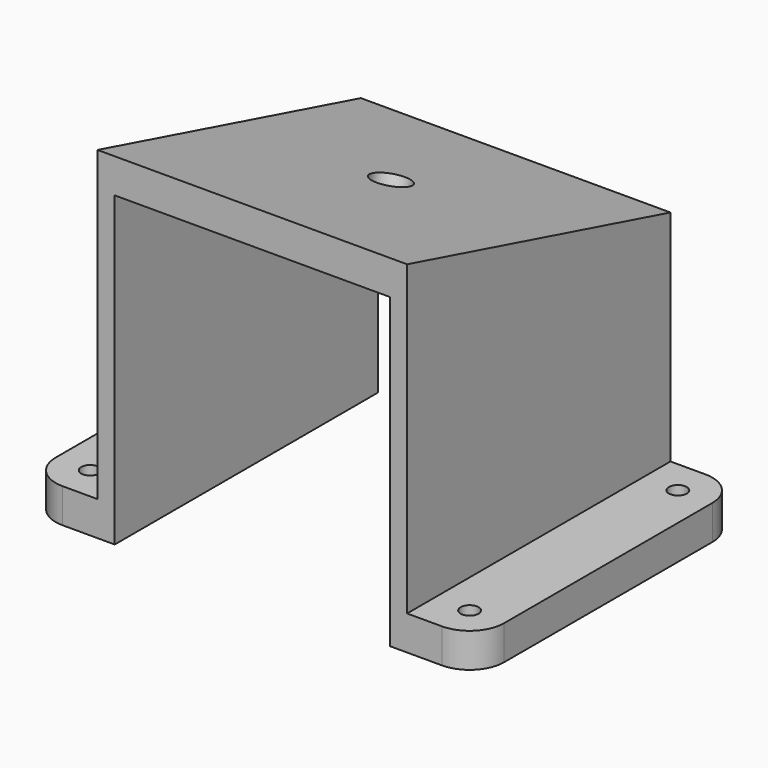
from build123d import *

# Parameters (mm, degrees)
F1_DEPTH  = 6.35
F2_W      = 60.7720911503
F2_H      = 40.4594867892
F1_FACE_W = 60.7720911503
F1_FACE_H = 6.35
F3_DEPTH  = 3.175
F5_DEPTH  = 25.4
F8_D      = 6.7564
F10_D     = 3.3


with BuildPart() as f1:
    # F0 (on Top) → F1 (new body)
    with BuildSketch(Plane.XY):
        with BuildLine():
            Line((0, -30.3860455751), (0, 0))
            Line((0, 0), (0, 30.3860455751))
            Line((0, 30.3860455751), (-6.4455037937, 30.3860455751))
            Line((-6.4455037937, 30.3860455751), (-6.4455037937, 24.0195686368))
            Line((-6.4455037937, 24.0195686368), (-12.811980732, 24.0195686368))
            Line((-12.811980732, 24.0195686368), (-12.811980732, 0))
            Line((-12.811980732, 0), (-12.811980732, -24.0195686368))
            ThreePointArc((-12.811980732, -24.0195686368), (-10.947282809, -28.5213476522), (-6.4455037937, -30.3860455751))
            Line((-6.4455037937, -30.3860455751), (0, -30.3860455751))
        make_face()
        with BuildLine():
            Line((-6.4455037937, 24.0195686368), (-6.4455037937, 30.3860455751))
            ThreePointArc((-6.4455037937, 30.3860455751), (-10.947282809, 28.5213476522), (-12.811980732, 24.0195686368))
            Line((-12.811980732, 24.0195686368), (-6.4455037937, 24.0195686368))
        make_face()
    extrude(amount=F1_DEPTH)

    # F2 (on Right) + F1_face (on face) → F3 (join)
    with BuildSketch(Plane.YZ):
        with Locations((0, 26.5797433946)):
            Rectangle(F2_W, F2_H)
        Polygon((-30.3860455751, 63.0933195353), (-30.3860455751, 46.8094867892), (30.3860455751, 46.8094867892), align=None)
    with BuildSketch(Plane(origin=(0, 0, 3.175), x_dir=(0, 1, 0), z_dir=(1, 0, 0))):
        Rectangle(F1_FACE_W, F1_FACE_H)
    extrude(amount=F3_DEPTH)

    # F4 (on face) → F5 (join)
    with BuildSketch(Plane.YZ.offset(3.175)):
        Polygon((-30.3860455751, 63.0933195353), (-30.3860455751, 56.7433195353), (30.3860455751, 40.4594867892), (30.3860455751, 46.8094867892), align=None)
    extrude(amount=F5_DEPTH)

    # F6: F1 across face


with BuildPart() as f1_1:
    add(f1.part)
    add(f1.part.mirror(Plane(origin=(28.575, 0, 51.7764031622), x_dir=(0, 1, 0), z_dir=(1, 0, 0))))

    # F8 (through all)
    with Locations(Plane(origin=(0, 12.1503507906, 45.3457264801), x_dir=(1, 0, 0), z_dir=(0, -0.2588190451, -0.9659258263))):
        with Locations((28.575, 12.5789687571)):
            Hole(F8_D / 2)

    # F10 (through all)
    with Locations(Plane(origin=(0, 0, 0), x_dir=(1, 0, 0), z_dir=(0, 0, -1))):
        with Locations((-6.4455037937, 24.0195686368), (-6.4455037937, -24.0195686368), (63.5955037937, -24.0195686368), (63.5955037937, 24.0195686368)):
            Hole(F10_D / 2)


solid = f1_1.part
